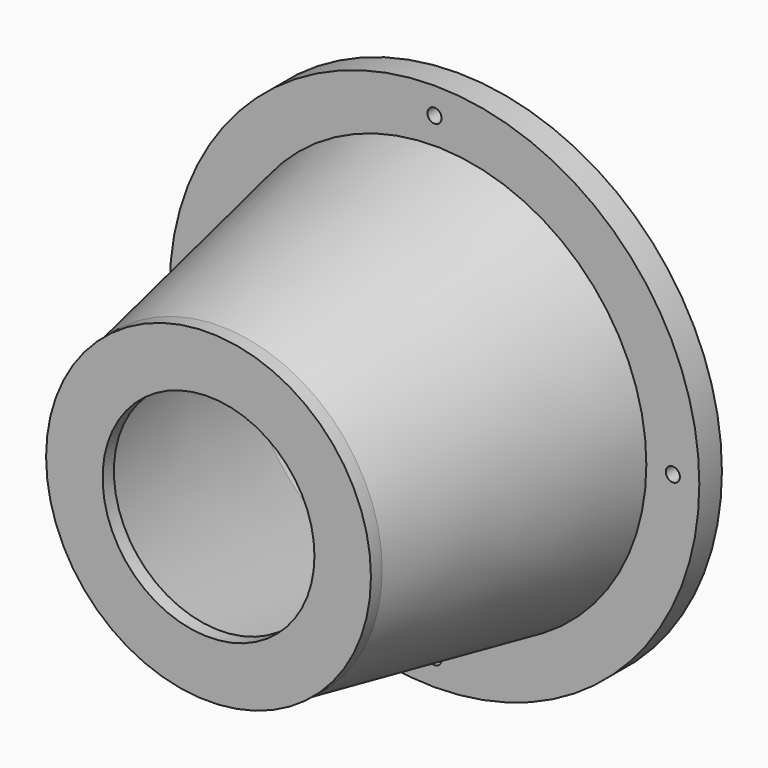
from build123d import *

# Parameters (mm, degrees)
F0_R      = 37.5
F0_R_2    = 30
F1_DEPTH  = 4
F2_R      = 1
F3_DEPTH  = 25
F4_R      = 30
F4_R_2    = 27.5
F5_DEPTH  = 4
F6_R      = 30
F8_R      = 23
F11_R     = 27.5
F10_R     = 20.5
F13_R     = 23
F13_R_2   = 15
F14_DEPTH = 2


with BuildPart() as f1:
    # F0 (on Front) → F1 (new body)
    with BuildSketch(Plane.XZ):
        Circle(F0_R)
        Circle(F0_R_2, mode=Mode.SUBTRACT)
    extrude(amount=F1_DEPTH)

    # F2 (on face) → F3 (cut)
    with BuildSketch(Plane.XZ.offset(4)):
        with Locations((0, 33.75)):
            Circle(F2_R)
        with Locations((-33.75, 0)):
            Circle(F2_R)
        with Locations((33.75, 0)):
            Circle(F2_R)
        with Locations((0, -33.75)):
            Circle(F2_R)
    extrude(amount=-F3_DEPTH, mode=Mode.SUBTRACT)

    # F4 (on face) → F5 (join)
    with BuildSketch(Plane(origin=(0, 0, 0), x_dir=(-1, 0, 0), z_dir=(0, 1, 0))):
        Circle(F4_R)
        Circle(F4_R_2, mode=Mode.SUBTRACT)
    extrude(amount=-F5_DEPTH)

    # F6 (on face) → F9 section 0
    with BuildSketch(Plane.XZ.offset(4)):
        Circle(F6_R)
    # F8 (on offset) → F9 section 1
    with BuildSketch(Plane.XZ.offset(42)):
        Circle(F8_R)
    loft()

    # F11 (on face) → F12 section 0
    with BuildSketch(Plane(origin=(0, -4, 0), x_dir=(-1, 0, 0), z_dir=(0, 1, 0))):
        Circle(F11_R)
    # F10 (on face) → F12 section 1
    with BuildSketch(Plane.XZ.offset(42)):
        Circle(F10_R)
    loft(mode=Mode.SUBTRACT)

    # F13 (on face) → F14 (join)
    with BuildSketch(Plane.XZ.offset(42)):
        Circle(F13_R)
        Circle(F13_R_2, mode=Mode.SUBTRACT)
    extrude(amount=F14_DEPTH)


solid = f1.part
